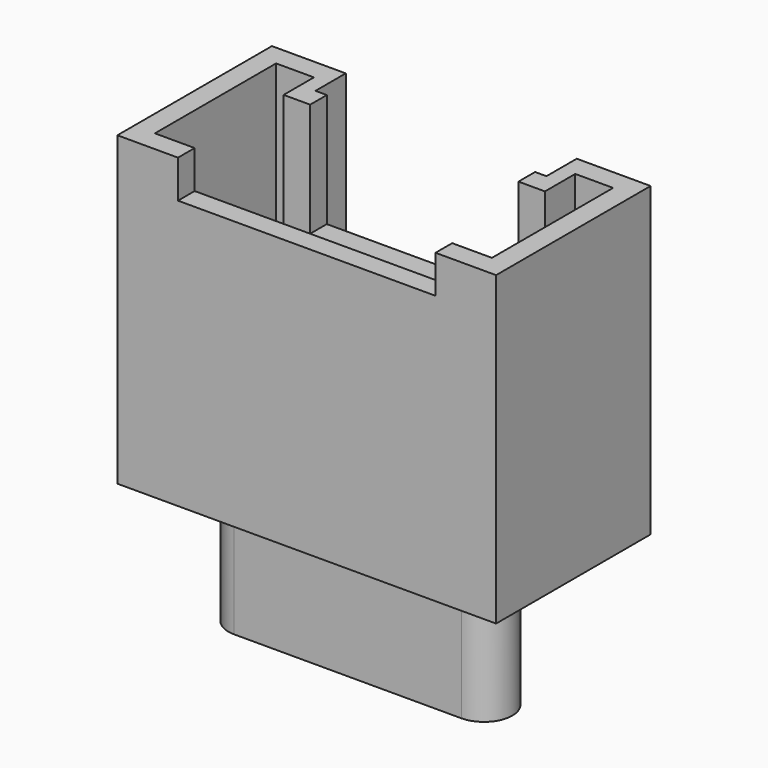
from build123d import *

# Parameters (mm, degrees)
PAD005_DEPTH            = 8.1
POCKET003_DEPTH         = 7
SKETCH010_W             = 6.8
SKETCH010_H             = 5
POCKET004_DEPTH         = 1
SKETCH011_W             = 5.5
SKETCH011_H             = 3
POCKET005_DEPTH         = 3
PAD006_DEPTH            = 4
PAD014_DEPTH            = 3.4
BODY005_PLACEMENT_ANGLE = 180


with BuildPart() as part:
    # Sketch008 → Pad005 (new body)
    with BuildSketch(Plane.XY):
        Polygon((-5, 0), (-3.05, 0), (-3.05, 1), (3.05, 1), (3.05, 0), (5, 0), (5, 5.1), (-5, 5.1), align=None)
    extrude(amount=PAD005_DEPTH)

    # Sketch009 (on Face10 of Pad005) → Pocket003 (cut)
    with BuildSketch(Plane.XY.offset(8.1)):
        Polygon((-4.45, 0.55), (-3.45, 0.55), (-3.45, 1.55), (3.45, 1.55), (3.45, 0.55), (4.45, 0.55), (4.45, 4.55), (-4.45, 4.55), align=None)
    extrude(amount=-POCKET003_DEPTH, mode=Mode.SUBTRACT)

    # Sketch010 (on Face5 of Pocket003) → Pocket004 (cut)
    with BuildSketch(Plane.XY.offset(8.1)):
        with Locations((0, 5.5)):
            Rectangle(SKETCH010_W, SKETCH010_H)
    extrude(amount=-POCKET004_DEPTH, mode=Mode.SUBTRACT)

    # Sketch011 (on Face5 of Pocket004) → Pocket005 (cut)
    with BuildSketch(Plane.XY.offset(8.1)):
        with Locations((0, 1.5)):
            Rectangle(SKETCH011_W, SKETCH011_H)
    extrude(amount=-POCKET005_DEPTH, mode=Mode.SUBTRACT)

    # Sketch012 (on Face26 of Pocket005) → Pad006 (join)
    with BuildSketch(Plane.XY.offset(1.1)):
        with BuildLine():
            ThreePointArc((-3.4, 3.25), (-3.65, 3), (-3.4, 2.75))
            Line((-3.4, 2.75), (3.4, 2.75))
            ThreePointArc((3.4, 2.75), (3.65, 3), (3.4, 3.25))
            Line((-3.4, 3.25), (3.4, 3.25))
        make_face()
    extrude(amount=PAD006_DEPTH)

    # Sketch020 (on Face4 of Pad006) → Pad014 (join)
    with BuildSketch(Plane(origin=(0, 0, 0), x_dir=(1, 0, 0), z_dir=(0, 0, -1))):
        with BuildLine():
            ThreePointArc((-3, -2.25), (-3.75, -3), (-3, -3.75))
            Line((-3, -3.75), (3, -3.75))
            ThreePointArc((3, -3.75), (3.75, -3), (3, -2.25))
            Line((-3, -2.25), (3, -2.25))
        make_face()
    extrude(amount=PAD014_DEPTH)


with BuildPart() as part_1:
    # Body005 placement: moved
    add(part.part.moved(Location((-7, 29, 0))).rotate(Axis((-7, 29, 0), (0, 0, 1)), BODY005_PLACEMENT_ANGLE))


with BuildPart() as part_2:
    # Body009 placement: moved
    add(part_1.part.moved(Location((0, 18, 0))))


solid = part_2.part
